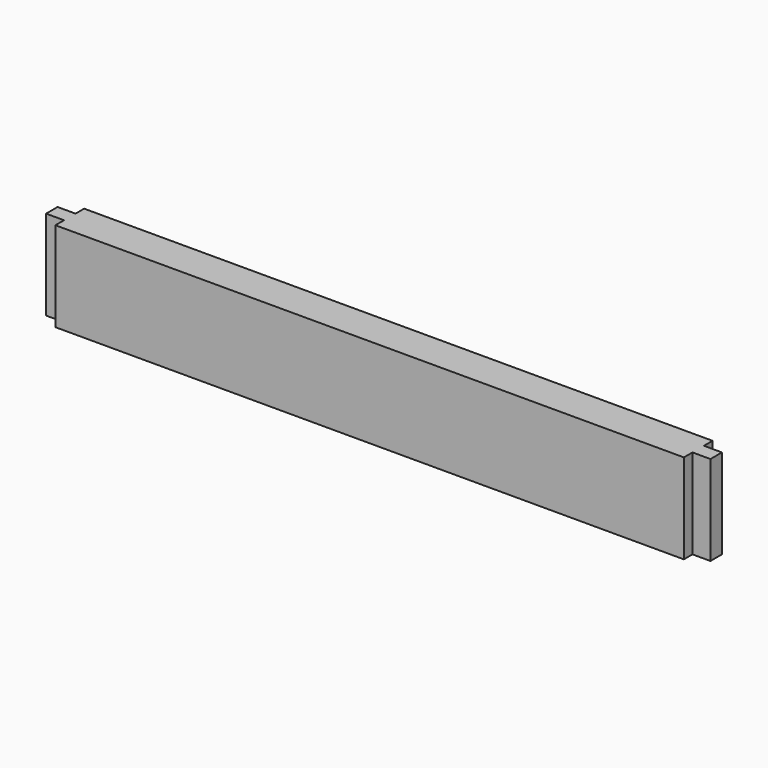
from build123d import *

# Parameters (mm, degrees)
F0_W     = 350
F0_H     = 50
F1_DEPTH = 20
F2_W     = 8
F2_H     = 50
F3_DEPTH = 10
F4_W     = 8
F4_H     = 50
F5_DEPTH = 10


with BuildPart() as f1:
    # F0 (on Front) → F1 (new body)
    with BuildSketch(Plane.XZ):
        with Locations((-197.51189, 47.087438)):
            Rectangle(F0_W, F0_H)
    extrude(amount=F1_DEPTH)

    # F2 (on face) → F3 (join)
    with BuildSketch(Plane.YZ.offset(-22.51189)):
        with Locations((-10, 47.087438)):
            Rectangle(F2_W, F2_H)
    extrude(amount=F3_DEPTH)

    # F4 (on face) → F5 (join)
    with BuildSketch(Plane(origin=(-372.51189, 0, 0), x_dir=(0, -1, 0), z_dir=(-1, 0, 0))):
        with Locations((10, 47.087438)):
            Rectangle(F4_W, F4_H)
    extrude(amount=F5_DEPTH)


solid = f1.part
